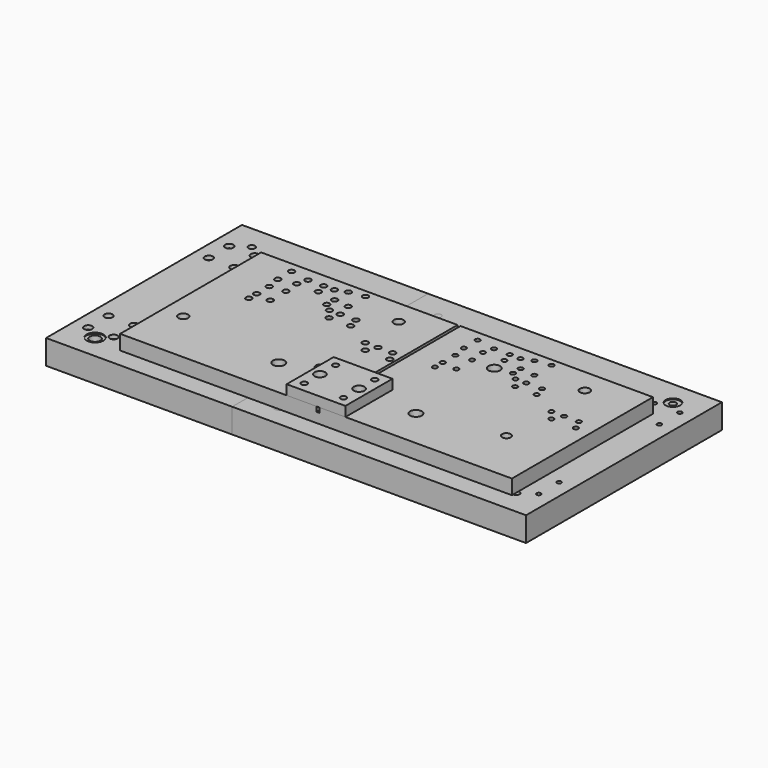
from build123d import *

# Parameters (mm, degrees)
F0_R            = 6
F0_R_2          = 3
F0_W            = 200
F0_H            = 180
F0_R_3          = 2.5
F1_DEPTH        = 15
F2_W            = 60
F2_H            = 60
F2_R            = 2.5
F3_DEPTH        = 10
F5_D            = 11
F5_DEPTH        = 50
F5_TIP          = 3.3047334047
F5_2_D          = 11
F5_2_DEPTH      = 50
F5_2_TIP        = 3.3047334047
F6_D            = 6
F6_DEPTH        = 50
F6_TIP          = 1.8025818571
F6_2_D          = 6
F6_2_DEPTH      = 50
F6_2_TIP        = 1.8025818571
F7_W            = 150
F7_H            = 125
F7_R            = 3.4
F7_R_2          = 2.25
F8_DEPTH        = 25
F10_DEPTH       = 25
F11_D           = 4.5
F11_DEPTH       = 50
F11_CBORE_D     = 8.25
F11_CBORE_DEPTH = 4
F11_TIP         = 1.3519363928
F12_D           = 11
F12_DEPTH       = 50
F12_CBORE_D     = 17.25
F12_CBORE_DEPTH = 1
F12_TIP         = 3.3047334047
F13_D           = 9
F13_DEPTH       = 50
F13_TIP         = 2.7038727856
F14_D           = 10
F14_DEPTH       = 50
F14_TIP         = 3.0043030951
F15_W           = 150
F15_H           = 125
F15_R           = 3.4
F15_R_2         = 2.25
F16_DEPTH       = 25
F17_D           = 5
F17_DEPTH       = 50
F17_CBORE_D     = 15
F17_CBORE_DEPTH = 1
F17_TIP         = 1.5021515476
F18_D           = 10
F18_DEPTH       = 50
F18_TIP         = 3.0043030951
F19_D           = 9
F19_DEPTH       = 50
F19_TIP         = 2.7038727856
F20_W           = 3
F20_H           = 98.5
F21_DEPTH       = 5


with BuildPart() as f1:
    # F0 (on Top) → F1 (new body)
    with BuildSketch(Plane.XY):
        with BuildLine():
            Line((190, 0), (0, 0))
            Line((0, 0), (0, -180))
            Line((0, -180), (190, -180))
            Line((190, -180), (190, -80))
            Line((190, -80), (190, -72.9849623113))
            ThreePointArc((190, -72.9849623113), (188.0751404539, -72.0124611797), (187.3, -70))
            ThreePointArc((187.3, -70), (188.0751404539, -67.9875388203), (190, -67.0150376887))
            Line((190, -67.0150376887), (190, 0))
        make_face()
        with Locations((130, -140)):
            Circle(F0_R, mode=Mode.SUBTRACT)
        with BuildLine():
            ThreePointArc((44.8, -68), (39.6786796564, -70.1213203436), (41.8, -65))
            ThreePointArc((41.8, -65), (43.9213203436, -65.8786796564), (44.8, -68))
        make_face(mode=Mode.SUBTRACT)
        with BuildLine():
            ThreePointArc((41.8, -61), (38.8, -58), (41.8, -55))
            ThreePointArc((41.8, -55), (43.9213203436, -55.8786796564), (44.8, -58))
            ThreePointArc((44.8, -58), (43.9213203436, -60.1213203436), (41.8, -61))
        make_face(mode=Mode.SUBTRACT)
        with BuildLine():
            ThreePointArc((60.3, -60), (55.1786796564, -62.1213203436), (57.3, -57))
            ThreePointArc((57.3, -57), (59.4213203436, -57.8786796564), (60.3, -60))
        make_face(mode=Mode.SUBTRACT)
        with Locations((170.3, -80)):
            Circle(F0_R_2, mode=Mode.SUBTRACT)
        with Locations((162.3, -70)):
            Circle(F0_R_2, mode=Mode.SUBTRACT)
        with BuildLine():
            ThreePointArc((172.3, -70), (175.3, -67), (178.3, -70))
            ThreePointArc((178.3, -70), (175.3, -73), (172.3, -70))
        make_face(mode=Mode.SUBTRACT)
        with BuildLine():
            ThreePointArc((115.9, -54.5), (111.5685325647, -57.1883441872), (111.0818703542, -52.1137048399))
            ThreePointArc((111.0818703542, -52.1137048399), (114.2314674353, -51.8116558128), (115.9, -54.5))
        make_face(mode=Mode.SUBTRACT)
        with BuildLine():
            ThreePointArc((137.9, -54.5), (134.9, -57.5), (131.9, -54.5))
            ThreePointArc((131.9, -54.5), (134.9, -51.5), (137.9, -54.5))
        make_face(mode=Mode.SUBTRACT)
        with BuildLine():
            ThreePointArc((44.8, -42), (43.9213203436, -44.1213203436), (41.8, -45))
            ThreePointArc((41.8, -45), (39.6786796564, -39.8786796564), (44.8, -42))
        make_face(mode=Mode.SUBTRACT)
        with BuildLine():
            ThreePointArc((42.4, -28), (37.2786796564, -30.1213203436), (39.4, -25))
            ThreePointArc((39.4, -25), (41.5213203436, -25.8786796564), (42.4, -28))
        make_face(mode=Mode.SUBTRACT)
        with BuildLine():
            ThreePointArc((60.3, -40), (59.4213203436, -42.1213203436), (57.3, -43))
            ThreePointArc((57.3, -43), (55.1786796564, -37.8786796564), (60.3, -40))
        make_face(mode=Mode.SUBTRACT)
        with BuildLine():
            ThreePointArc((100, -37.5), (94.8786796564, -39.6213203436), (97, -34.5))
            ThreePointArc((97, -34.5), (99.1213203436, -35.3786796564), (100, -37.5))
        make_face(mode=Mode.SUBTRACT)
        with Locations((56, -24.5)):
            Circle(F0_R_2, mode=Mode.SUBTRACT)
        with BuildLine():
            ThreePointArc((81, -24.5), (78, -27.5), (75, -24.5))
            ThreePointArc((75, -24.5), (78, -21.5), (81, -24.5))
        make_face(mode=Mode.SUBTRACT)
        with BuildLine():
            ThreePointArc((97, -30.5), (94, -27.5), (97, -24.5))
            ThreePointArc((97, -24.5), (99.1213203436, -25.3786796564), (100, -27.5))
            ThreePointArc((100, -27.5), (99.1213203436, -29.6213203436), (97, -30.5))
        make_face(mode=Mode.SUBTRACT)
        with BuildLine():
            ThreePointArc((42.4, -10.5), (41.5213203436, -12.6213203436), (39.4, -13.5))
            ThreePointArc((39.4, -13.5), (37.2786796564, -8.3786796564), (42.4, -10.5))
        make_face(mode=Mode.SUBTRACT)
        with Locations((59, -14)):
            Circle(F0_R_2, mode=Mode.SUBTRACT)
        with BuildLine():
            ThreePointArc((78, -14), (75, -17), (72, -14))
            ThreePointArc((72, -14), (75, -11), (78, -14))
        make_face(mode=Mode.SUBTRACT)
        with BuildLine():
            ThreePointArc((89, -14), (86, -17), (83, -14))
            ThreePointArc((83, -14), (86, -11), (89, -14))
        make_face(mode=Mode.SUBTRACT)
        with BuildLine():
            ThreePointArc((100, -10), (99.1213203436, -12.1213203436), (97, -13))
            ThreePointArc((97, -13), (94.8786796564, -7.8786796564), (100, -10))
        make_face(mode=Mode.SUBTRACT)
        with BuildLine():
            ThreePointArc((107.9, -44), (107.5883441872, -45.3314674353), (106.7181296458, -46.3862951601))
            ThreePointArc((106.7181296458, -46.3862951601), (102.2116558128, -42.6685325647), (107.9, -44))
        make_face(mode=Mode.SUBTRACT)
        with Locations((115.9, -44)):
            Circle(F0_R_2, mode=Mode.SUBTRACT)
        with BuildLine():
            ThreePointArc((134.9, -44), (131.9, -47), (128.9, -44))
            ThreePointArc((128.9, -44), (131.9, -41), (134.9, -44))
        make_face(mode=Mode.SUBTRACT)
        with BuildLine():
            ThreePointArc((115.5, -29.5), (110.3786796564, -31.6213203436), (112.5, -26.5))
            ThreePointArc((112.5, -26.5), (114.6213203436, -27.3786796564), (115.5, -29.5))
        make_face(mode=Mode.SUBTRACT)
        with BuildLine():
            ThreePointArc((115.5, -7.5), (114.6213203436, -9.6213203436), (112.5, -10.5))
            ThreePointArc((112.5, -10.5), (110.3786796564, -5.3786796564), (115.5, -7.5))
        make_face(mode=Mode.SUBTRACT)
        with BuildLine():
            Line((200, 0), (190, 0))
            Line((190, 0), (190, -67.0150376887))
            ThreePointArc((190, -67.0150376887), (192.3124611797, -67.7751404539), (193.3, -70))
            ThreePointArc((193.3, -70), (192.3124611797, -72.2248595461), (190, -72.9849623113))
            Line((190, -72.9849623113), (190, -80))
            Line((190, -80), (190, -180))
            Line((190, -180), (200, -180))
            Line((200, -180), (200, 0))
        make_face()
        with BuildLine():
            ThreePointArc((198.3, -80), (195.3, -83), (192.3, -80))
            ThreePointArc((192.3, -80), (195.3, -77), (198.3, -80))
        make_face(mode=Mode.SUBTRACT)
        with Locations((300, -90)):
            Rectangle(F0_W, F0_H)
        with Locations((270, -140)):
            Circle(F0_R, mode=Mode.SUBTRACT)
        with BuildLine():
            ThreePointArc((234.3, -68), (230.032233047, -69.767766953), (231.8, -65.5))
            ThreePointArc((231.8, -65.5), (233.567766953, -66.232233047), (234.3, -68))
        make_face(mode=Mode.SUBTRACT)
        with BuildLine():
            ThreePointArc((231.8, -60.5), (229.3, -58), (231.8, -55.5))
            ThreePointArc((231.8, -55.5), (233.567766953, -56.232233047), (234.3, -58))
            ThreePointArc((234.3, -58), (233.567766953, -59.767766953), (231.8, -60.5))
        make_face(mode=Mode.SUBTRACT)
        with BuildLine():
            ThreePointArc((249.8, -60), (245.532233047, -61.767766953), (247.3, -57.5))
            ThreePointArc((247.3, -57.5), (249.067766953, -58.232233047), (249.8, -60))
        make_face(mode=Mode.SUBTRACT)
        with Locations((360.3, -80)):
            Circle(F0_R_3, mode=Mode.SUBTRACT)
        with BuildLine():
            ThreePointArc((387.8, -80), (385.3, -82.5), (382.8, -80))
            ThreePointArc((382.8, -80), (385.3, -77.5), (387.8, -80))
        make_face(mode=Mode.SUBTRACT)
        with Locations((352.3, -70)):
            Circle(F0_R_3, mode=Mode.SUBTRACT)
        with BuildLine():
            ThreePointArc((367.8, -70), (365.3, -72.5), (362.8, -70))
            ThreePointArc((362.8, -70), (365.3, -67.5), (367.8, -70))
        make_face(mode=Mode.SUBTRACT)
        with BuildLine():
            ThreePointArc((382.8, -70), (380.3, -72.5), (377.8, -70))
            ThreePointArc((377.8, -70), (380.3, -67.5), (382.8, -70))
        make_face(mode=Mode.SUBTRACT)
        with BuildLine():
            ThreePointArc((305.4, -54.5), (301.7904438039, -56.7402868226), (301.3848919618, -52.5114206999))
            ThreePointArc((301.3848919618, -52.5114206999), (304.0095561961, -52.2597131774), (305.4, -54.5))
        make_face(mode=Mode.SUBTRACT)
        with BuildLine():
            ThreePointArc((327.4, -54.5), (324.9, -57), (322.4, -54.5))
            ThreePointArc((322.4, -54.5), (324.9, -52), (327.4, -54.5))
        make_face(mode=Mode.SUBTRACT)
        with BuildLine():
            ThreePointArc((234.3, -42), (233.567766953, -43.767766953), (231.8, -44.5))
            ThreePointArc((231.8, -44.5), (230.032233047, -40.232233047), (234.3, -42))
        make_face(mode=Mode.SUBTRACT)
        with BuildLine():
            ThreePointArc((249.8, -40), (249.067766953, -41.767766953), (247.3, -42.5))
            ThreePointArc((247.3, -42.5), (245.532233047, -38.232233047), (249.8, -40))
        make_face(mode=Mode.SUBTRACT)
        with BuildLine():
            ThreePointArc((231.9, -28), (227.632233047, -29.767766953), (229.4, -25.5))
            ThreePointArc((229.4, -25.5), (231.167766953, -26.232233047), (231.9, -28))
        make_face(mode=Mode.SUBTRACT)
        with Locations((246, -24.5)):
            Circle(F0_R_3, mode=Mode.SUBTRACT)
        with Locations((270, -40)):
            Circle(F0_R, mode=Mode.SUBTRACT)
        with BuildLine():
            ThreePointArc((297.4, -44), (297.1402868226, -45.1095561961), (296.4151080382, -45.9885793001))
            ThreePointArc((296.4151080382, -45.9885793001), (292.6597131774, -42.8904438039), (297.4, -44))
        make_face(mode=Mode.SUBTRACT)
        with BuildLine():
            ThreePointArc((289.5, -37.5), (285.232233047, -39.267766953), (287, -35))
            ThreePointArc((287, -35), (288.767766953, -35.732233047), (289.5, -37.5))
        make_face(mode=Mode.SUBTRACT)
        with BuildLine():
            ThreePointArc((270.5, -24.5), (268, -27), (265.5, -24.5))
            ThreePointArc((265.5, -24.5), (268, -22), (270.5, -24.5))
        make_face(mode=Mode.SUBTRACT)
        with BuildLine():
            ThreePointArc((287, -30), (284.5, -27.5), (287, -25))
            ThreePointArc((287, -25), (288.767766953, -25.732233047), (289.5, -27.5))
            ThreePointArc((289.5, -27.5), (288.767766953, -29.267766953), (287, -30))
        make_face(mode=Mode.SUBTRACT)
        with Locations((249, -14)):
            Circle(F0_R_3, mode=Mode.SUBTRACT)
        with BuildLine():
            ThreePointArc((231.9, -10.5), (231.167766953, -12.267766953), (229.4, -13))
            ThreePointArc((229.4, -13), (227.632233047, -8.732233047), (231.9, -10.5))
        make_face(mode=Mode.SUBTRACT)
        with BuildLine():
            ThreePointArc((267.5, -14), (265, -16.5), (262.5, -14))
            ThreePointArc((262.5, -14), (265, -11.5), (267.5, -14))
        make_face(mode=Mode.SUBTRACT)
        with BuildLine():
            ThreePointArc((278.5, -14), (276, -16.5), (273.5, -14))
            ThreePointArc((273.5, -14), (276, -11.5), (278.5, -14))
        make_face(mode=Mode.SUBTRACT)
        with BuildLine():
            ThreePointArc((289.5, -10), (288.767766953, -11.767766953), (287, -12.5))
            ThreePointArc((287, -12.5), (285.232233047, -8.232233047), (289.5, -10))
        make_face(mode=Mode.SUBTRACT)
        with Locations((305.9, -44)):
            Circle(F0_R_3, mode=Mode.SUBTRACT)
        with BuildLine():
            ThreePointArc((324.4, -44), (321.9, -46.5), (319.4, -44))
            ThreePointArc((319.4, -44), (321.9, -41.5), (324.4, -44))
        make_face(mode=Mode.SUBTRACT)
        with BuildLine():
            ThreePointArc((305, -29.5), (300.732233047, -31.267766953), (302.5, -27))
            ThreePointArc((302.5, -27), (304.267766953, -27.732233047), (305, -29.5))
        make_face(mode=Mode.SUBTRACT)
        with BuildLine():
            ThreePointArc((305, -7.5), (304.267766953, -9.267766953), (302.5, -10))
            ThreePointArc((302.5, -10), (300.732233047, -5.732233047), (305, -7.5))
        make_face(mode=Mode.SUBTRACT)
    extrude(amount=F1_DEPTH)

    # F5
    with Locations(Plane.XY.offset(25)):
        with Locations((180, -150), (220, -150)):
            Hole(F5_D / 2, depth=F5_DEPTH)
            with Locations((0, 0, -(F5_DEPTH + F5_TIP / 2))):  # 118° drill point
                Cone(0, F5_D / 2, F5_TIP, mode=Mode.SUBTRACT)

    # F6
    with Locations(Plane.XY.offset(25)):
        with Locations((180, -130), (220, -130), (220, -170), (180, -170)):
            Hole(F6_D / 2, depth=F6_DEPTH)
            with Locations((0, 0, -(F6_DEPTH + F6_TIP / 2))):  # 118° drill point
                Cone(0, F6_D / 2, F6_TIP, mode=Mode.SUBTRACT)

    # F13
    with Locations(Plane(origin=(0, 0, 0), x_dir=(1, 0, 0), z_dir=(0, 0, -1))):
        with Locations((160.4, 125)):
            Hole(F13_D / 2, depth=F13_DEPTH)
            with Locations((0, 0, -(F13_DEPTH + F13_TIP / 2))):  # 118° drill point
                Cone(0, F13_D / 2, F13_TIP, mode=Mode.SUBTRACT)

    # F14
    with Locations(Plane(origin=(0, 0, 0), x_dir=(1, 0, 0), z_dir=(0, 0, -1))):
        with Locations((20.4, 125), (160.4, 25)):
            Hole(F14_D / 2, depth=F14_DEPTH)
            with Locations((0, 0, -(F14_DEPTH + F14_TIP / 2))):  # 118° drill point
                Cone(0, F14_D / 2, F14_TIP, mode=Mode.SUBTRACT)

    # F18
    with Locations(Plane(origin=(0, 0, 0), x_dir=(1, 0, 0), z_dir=(0, 0, -1))):
        with Locations((210.4, 125), (350.4, 25)):
            Hole(F18_D / 2, depth=F18_DEPTH)
            with Locations((0, 0, -(F18_DEPTH + F18_TIP / 2))):  # 118° drill point
                Cone(0, F18_D / 2, F18_TIP, mode=Mode.SUBTRACT)

    # F19
    with Locations(Plane(origin=(0, 0, 0), x_dir=(1, 0, 0), z_dir=(0, 0, -1))):
        with Locations((350.4, 125)):
            Hole(F19_D / 2, depth=F19_DEPTH)
            with Locations((0, 0, -(F19_DEPTH + F19_TIP / 2))):  # 118° drill point
                Cone(0, F19_D / 2, F19_TIP, mode=Mode.SUBTRACT)

    # F20 (on face) → F21 (cut)
    with BuildSketch(Plane.XY.offset(15)):
        with Locations((202, -49.25)):
            Rectangle(F20_W, F20_H)
        Polygon((203.5, -101.5), (203.5, -98.5), (200.5, -98.5), (200.5, -180), (203.5, -180), align=None)
    extrude(amount=-F21_DEPTH, mode=Mode.SUBTRACT)


with BuildPart() as f3:
    # F2 (on face) → F3 (new body)
    with BuildSketch(Plane.XY.offset(15)):
        with Locations((200, -150)):
            Rectangle(F2_W, F2_H)
        with Locations((180, -170)):
            Circle(F2_R, mode=Mode.SUBTRACT)
        with Locations((220, -170)):
            Circle(F2_R, mode=Mode.SUBTRACT)
        with Locations((180, -150)):
            Circle(F2_R, mode=Mode.SUBTRACT)
        with Locations((180, -130)):
            Circle(F2_R, mode=Mode.SUBTRACT)
        with Locations((220, -150)):
            Circle(F2_R, mode=Mode.SUBTRACT)
        with Locations((220, -130)):
            Circle(F2_R, mode=Mode.SUBTRACT)
    extrude(amount=F3_DEPTH)

    # F5#2
    with Locations(Plane.XY.offset(25)):
        with Locations((180, -150), (220, -150)):
            Hole(F5_2_D / 2, depth=F5_2_DEPTH)
            with Locations((0, 0, -(F5_2_DEPTH + F5_2_TIP / 2))):  # 118° drill point
                Cone(0, F5_2_D / 2, F5_2_TIP, mode=Mode.SUBTRACT)

    # F6#2
    with Locations(Plane.XY.offset(25)):
        with Locations((180, -130), (220, -130), (220, -170), (180, -170)):
            Hole(F6_2_D / 2, depth=F6_2_DEPTH)
            with Locations((0, 0, -(F6_2_DEPTH + F6_2_TIP / 2))):  # 118° drill point
                Cone(0, F6_2_D / 2, F6_2_TIP, mode=Mode.SUBTRACT)


with BuildPart() as f8:
    # F7 (on face) → F8 (new body)
    with BuildSketch(Plane.XY):
        with Locations((15.4, -137.5)):
            Rectangle(F7_W, F7_H)
        with Locations((-29.6, -175)):
            Circle(F7_R, mode=Mode.SUBTRACT)
        with Locations((-44.6, -165)):
            Circle(F7_R_2, mode=Mode.SUBTRACT)
        with Locations((-44.6, -139)):
            Circle(F7_R_2, mode=Mode.SUBTRACT)
        with Locations((-18.6, -165)):
            Circle(F7_R_2, mode=Mode.SUBTRACT)
        with Locations((-4.6, -150)):
            Circle(F7_R, mode=Mode.SUBTRACT)
        with Locations((-18.6, -139)):
            Circle(F7_R_2, mode=Mode.SUBTRACT)
        with Locations((20.4, -125)):
            Circle(F7_R, mode=Mode.SUBTRACT)
        with Locations((165.4, -137.5)):
            Rectangle(F7_W, F7_H)
        with Locations((210.4, -175)):
            Circle(F7_R, mode=Mode.SUBTRACT)
        with Locations((199.4, -165)):
            Circle(F7_R_2, mode=Mode.SUBTRACT)
        with Locations((185.4, -150)):
            Circle(F7_R, mode=Mode.SUBTRACT)
        with Locations((199.4, -139)):
            Circle(F7_R_2, mode=Mode.SUBTRACT)
        with Locations((225.4, -165)):
            Circle(F7_R_2, mode=Mode.SUBTRACT)
        with Locations((225.4, -139)):
            Circle(F7_R_2, mode=Mode.SUBTRACT)
        with Locations((160.4, -125)):
            Circle(F7_R, mode=Mode.SUBTRACT)
        Polygon((-59.6, 50), (-59.6, -75), (90.4, -75), (90.4, 50), (27.1399058402, 50), align=None)
        with Locations((20.4, -25)):
            Circle(F7_R, mode=Mode.SUBTRACT)
        with Locations((-44.6, -11)):
            Circle(F7_R_2, mode=Mode.SUBTRACT)
        with Locations((-44.6, 15)):
            Circle(F7_R_2, mode=Mode.SUBTRACT)
        with Locations((-18.6, -11)):
            Circle(F7_R_2, mode=Mode.SUBTRACT)
        with Locations((-4.6, 0)):
            Circle(F7_R, mode=Mode.SUBTRACT)
        with Locations((-18.6, 15)):
            Circle(F7_R_2, mode=Mode.SUBTRACT)
        with Locations((-29.6, 25)):
            Circle(F7_R, mode=Mode.SUBTRACT)
        with Locations((165.4, -12.5)):
            Rectangle(F7_W, F7_H)
        with Locations((160.4, -25)):
            Circle(F7_R, mode=Mode.SUBTRACT)
        with Locations((199.4, -11)):
            Circle(F7_R_2, mode=Mode.SUBTRACT)
        with Locations((185.4, 0)):
            Circle(F7_R, mode=Mode.SUBTRACT)
        with Locations((199.4, 15)):
            Circle(F7_R_2, mode=Mode.SUBTRACT)
        with Locations((225.4, -11)):
            Circle(F7_R_2, mode=Mode.SUBTRACT)
        with Locations((225.4, 15)):
            Circle(F7_R_2, mode=Mode.SUBTRACT)
        with Locations((210.4, 25)):
            Circle(F7_R, mode=Mode.SUBTRACT)
    extrude(amount=-F8_DEPTH)

    # F9 (on face) → F10 (cut)
    with BuildSketch(Plane.XY):
        with BuildLine():
            ThreePointArc((160.4, -118.01), (162.5283914114, -117.1283914114), (163.41, -115))
            ThreePointArc((163.41, -115), (162.5283914114, -112.8716085886), (160.4, -111.99))
            Line((160.4, -111.99), (160.4, -118.01))
        make_face()
        with BuildLine():
            ThreePointArc((160.4, -91.99), (157.39, -95), (160.4, -98.01))
            Line((160.4, -98.01), (160.4, -91.99))
        make_face()
        with BuildLine():
            Line((160.4, -91.99), (160.4, -98.01))
            ThreePointArc((160.4, -98.01), (162.5283914114, -97.1283914114), (163.41, -95))
            ThreePointArc((163.41, -95), (162.5283914114, -92.8716085886), (160.4, -91.99))
        make_face()
        with BuildLine():
            ThreePointArc((160.4, -101.6), (157, -105), (160.4, -108.4))
            Line((160.4, -108.4), (160.4, -101.6))
        make_face()
        with BuildLine():
            Line((160.4, -101.6), (160.4, -108.4))
            ThreePointArc((160.4, -108.4), (162.804163056, -107.404163056), (163.8, -105))
            ThreePointArc((163.8, -105), (162.804163056, -102.595836944), (160.4, -101.6))
        make_face()
        with BuildLine():
            Line((160.4, -118.01), (160.4, -111.99))
            ThreePointArc((160.4, -111.99), (157.39, -115), (160.4, -118.01))
        make_face()
    extrude(amount=-F10_DEPTH, mode=Mode.SUBTRACT)

    # F11
    with Locations(Plane.XY):
        with Locations((-18.6, -139), (-44.6, -139), (-44.6, -165), (-18.6, -165), (199.4, -165), (199.4, -139), (225.4, -139), (225.4, -165), (199.4, -11), (199.4, 15), (225.4, 15), (225.4, -11), (-18.6, -11), (-18.6, 15), (-44.6, 15), (-44.6, -11)):
            CounterBoreHole(F11_D / 2, F11_CBORE_D / 2, F11_CBORE_DEPTH, depth=F11_DEPTH)
            with Locations((0, 0, -(F11_DEPTH + F11_TIP / 2))):  # 118° drill point
                Cone(0, F11_D / 2, F11_TIP, mode=Mode.SUBTRACT)

    # F12
    with Locations(Plane.XY):
        with Locations((210.4, 25), (185.4, 0), (160.4, -25), (20.4, -125), (-4.6, -150), (-29.6, -175)):
            CounterBoreHole(F12_D / 2, F12_CBORE_D / 2, F12_CBORE_DEPTH, depth=F12_DEPTH)
            with Locations((0, 0, -(F12_DEPTH + F12_TIP / 2))):  # 118° drill point
                Cone(0, F12_D / 2, F12_TIP, mode=Mode.SUBTRACT)


with BuildPart() as f16:
    # F15 (on face) → F16 (new body)
    with BuildSketch(Plane.XY):
        with Locations((205.4, -137.5)):
            Rectangle(F15_W, F15_H)
        with Locations((160.4, -175)):
            Circle(F15_R, mode=Mode.SUBTRACT)
        with Locations((145.4, -165)):
            Circle(F15_R_2, mode=Mode.SUBTRACT)
        with Locations((145.4, -139)):
            Circle(F15_R_2, mode=Mode.SUBTRACT)
        with Locations((171.4, -165)):
            Circle(F15_R_2, mode=Mode.SUBTRACT)
        with Locations((185.4, -150)):
            Circle(F15_R, mode=Mode.SUBTRACT)
        with Locations((171.4, -139)):
            Circle(F15_R_2, mode=Mode.SUBTRACT)
        with Locations((210.4, -125)):
            Circle(F15_R, mode=Mode.SUBTRACT)
        Polygon((280.4, -75), (280.4, -200), (312.7825835157, -200), (430.4, -200), (430.4, -75), align=None)
        with Locations((400.4, -175)):
            Circle(F15_R, mode=Mode.SUBTRACT)
        with Locations((389.4, -165)):
            Circle(F15_R_2, mode=Mode.SUBTRACT)
        with Locations((375.4, -150)):
            Circle(F15_R, mode=Mode.SUBTRACT)
        with Locations((389.4, -139)):
            Circle(F15_R_2, mode=Mode.SUBTRACT)
        with Locations((415.4, -165)):
            Circle(F15_R_2, mode=Mode.SUBTRACT)
        with Locations((415.4, -139)):
            Circle(F15_R_2, mode=Mode.SUBTRACT)
        with Locations((350.4, -125)):
            Circle(F15_R, mode=Mode.SUBTRACT)
        with Locations((205.4, -12.5)):
            Rectangle(F15_W, F15_H)
        with Locations((210.4, -25)):
            Circle(F15_R, mode=Mode.SUBTRACT)
        with Locations((145.4, -11)):
            Circle(F15_R_2, mode=Mode.SUBTRACT)
        with Locations((145.4, 15)):
            Circle(F15_R_2, mode=Mode.SUBTRACT)
        with Locations((171.4, -11)):
            Circle(F15_R_2, mode=Mode.SUBTRACT)
        with Locations((185.4, 0)):
            Circle(F15_R, mode=Mode.SUBTRACT)
        with Locations((171.4, 15)):
            Circle(F15_R_2, mode=Mode.SUBTRACT)
        with Locations((160.4, 25)):
            Circle(F15_R, mode=Mode.SUBTRACT)
        Polygon((280.4, 50), (280.4, -75), (430.4, -75), (430.4, 50), (334.6819491684, 50), align=None)
        with Locations((350.4, -25)):
            Circle(F15_R, mode=Mode.SUBTRACT)
        with Locations((389.4, -11)):
            Circle(F15_R_2, mode=Mode.SUBTRACT)
        with Locations((375.4, 0)):
            Circle(F15_R, mode=Mode.SUBTRACT)
        with Locations((389.4, 15)):
            Circle(F15_R_2, mode=Mode.SUBTRACT)
        with Locations((415.4, -11)):
            Circle(F15_R_2, mode=Mode.SUBTRACT)
        with Locations((415.4, 15)):
            Circle(F15_R_2, mode=Mode.SUBTRACT)
        with Locations((400.4, 25)):
            Circle(F15_R, mode=Mode.SUBTRACT)
    extrude(amount=-F16_DEPTH)

    # F17
    with Locations(Plane.XY):
        with Locations((350.4, -25), (375.4, 0), (400.4, 25), (210.4, -125), (185.4, -150), (160.4, -175)):
            CounterBoreHole(F17_D / 2, F17_CBORE_D / 2, F17_CBORE_DEPTH, depth=F17_DEPTH)
            with Locations((0, 0, -(F17_DEPTH + F17_TIP / 2))):  # 118° drill point
                Cone(0, F17_D / 2, F17_TIP, mode=Mode.SUBTRACT)


solid = Compound([f1.part, f3.part, f8.part, f16.part])
